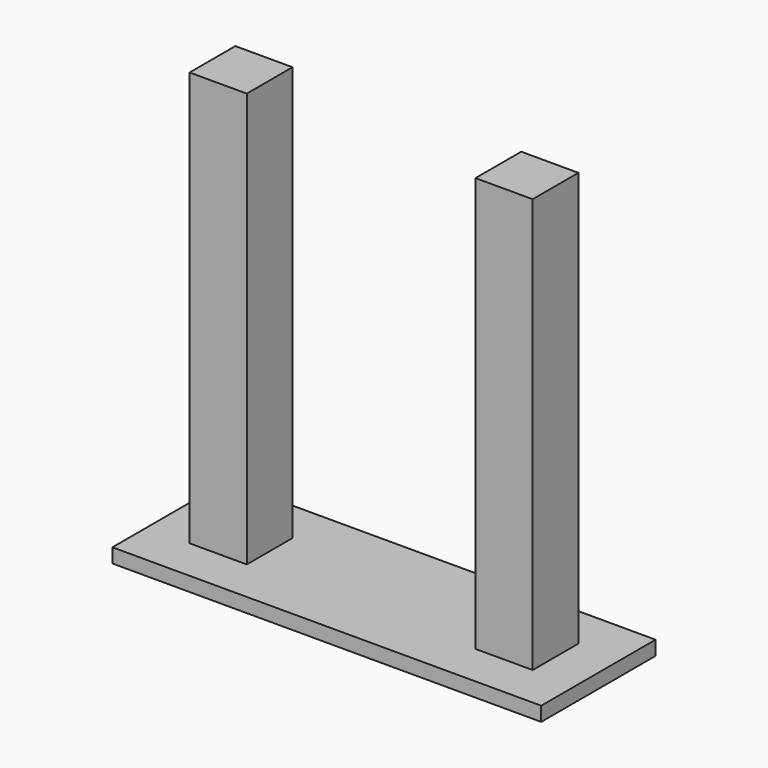
from build123d import *

# Parameters (mm, degrees)
F0_W     = 60
F0_H     = 20
F0_W_2   = 30
F0_H_2   = 5
F0_W_3   = 8
F0_H_3   = 8
F1_DEPTH = 2
F2_DEPTH = 60


with BuildPart() as f1:
    # F0 (on Top) → F1 (new body)
    with BuildSketch(Plane.XY):
        Rectangle(F0_W, F0_H)
        Polygon((-25, 5), (-15, 5), (-15, 2.5), (15, 2.5), (15, 5), (25, 5), (25, -5), (15, -5), (15, -2.5), (-15, -2.5), (-15, -5), (-25, -5), align=None, mode=Mode.SUBTRACT)
        Rectangle(F0_W_2, F0_H_2)
        Polygon((-15, 2.5), (-15, 5), (-25, 5), (-25, -5), (-15, -5), (-15, -2.5), align=None)
        with Locations((-20, 0)):
            Rectangle(F0_W_3, F0_H_3, mode=Mode.SUBTRACT)
        Polygon((15, 5), (15, 2.5), (15, -2.5), (15, -5), (25, -5), (25, 5), align=None)
        with Locations((20, 0)):
            Rectangle(F0_W_3, F0_H_3, mode=Mode.SUBTRACT)
        with Locations((-20, 0)):
            Rectangle(F0_W_3, F0_H_3)
        with Locations((20, 0)):
            Rectangle(F0_W_3, F0_H_3)
    extrude(amount=F1_DEPTH)

    # F0 (on Top) → F2 (join)
    with BuildSketch(Plane.XY):
        with Locations((-20, 0)):
            Rectangle(F0_W_3, F0_H_3)
        with Locations((20, 0)):
            Rectangle(F0_W_3, F0_H_3)
    extrude(amount=F2_DEPTH)


solid = f1.part
